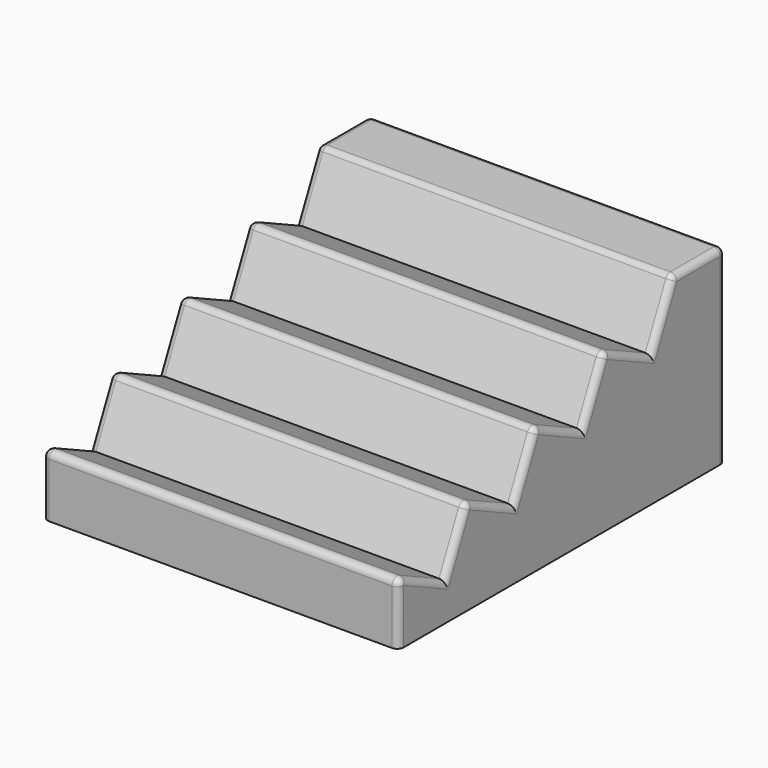
from build123d import *

# Parameters (mm, degrees)
PAD_DEPTH   = 55
FILLET_R    = 1
FILLET001_R = 1
FILLET002_R = 1
FILLET003_R = 1


with BuildPart() as part:
    # Sketch → Pad (new body)
    with BuildSketch(Plane.YZ):
        Polygon((0, 0), (63.157042, 0), (63.157042, 29.347581), (53.157042, 29.347581), (48.930859, 20.284503), (39.867781, 24.510686), (35.641599, 15.447608), (26.578521, 19.673791), (22.352338, 10.610713), (13.28926, 14.836895), (9.063078, 5.773817), (0, 10), align=None)
    extrude(amount=PAD_DEPTH)

    # Fillet
    fillet_edges = [part.edges().sort_by_distance(p)[0] for p in [
        (27.5, 13.28926, 14.836895),
        (27.5, 26.578521, 19.673791),
        (27.5, 39.867781, 24.510686),
        (27.5, 53.157042, 29.347581),
        (27.5, 0, 10),
    ]]
    fillet(fillet_edges, radius=FILLET_R)

    # Fillet001
    fillet001_edges = [part.edges().sort_by_distance(p)[0] for p in [
        (55, 18.273953, 12.512495),
        (55, 5.242848, 7.55522),
        (55, 31.563214, 17.34939),
        (55, 44.852474, 22.186285),
        (55, 50.909332, 24.527351),
    ]]
    fillet(fillet001_edges, radius=FILLET001_R)

    # Fillet002
    fillet002_edges = [part.edges().sort_by_distance(p)[0] for p in [
        (0, 44.852474, 22.186285),
        (0, 50.909332, 24.527351),
        (0, 31.563214, 17.34939),
        (0, 18.273953, 12.512495),
        (0, 5.242848, 7.55522),
    ]]
    fillet(fillet002_edges, radius=FILLET002_R)

    # Fillet003
    fillet003_edges = [part.edges().sort_by_distance(p)[0] for p in [
        (27.5, 63.157042, 29.347581),
        (0, 63.157042, 14.173791),
        (55, 63.157042, 14.173791),
    ]]
    fillet(fillet003_edges, radius=FILLET003_R)


solid = part.part
